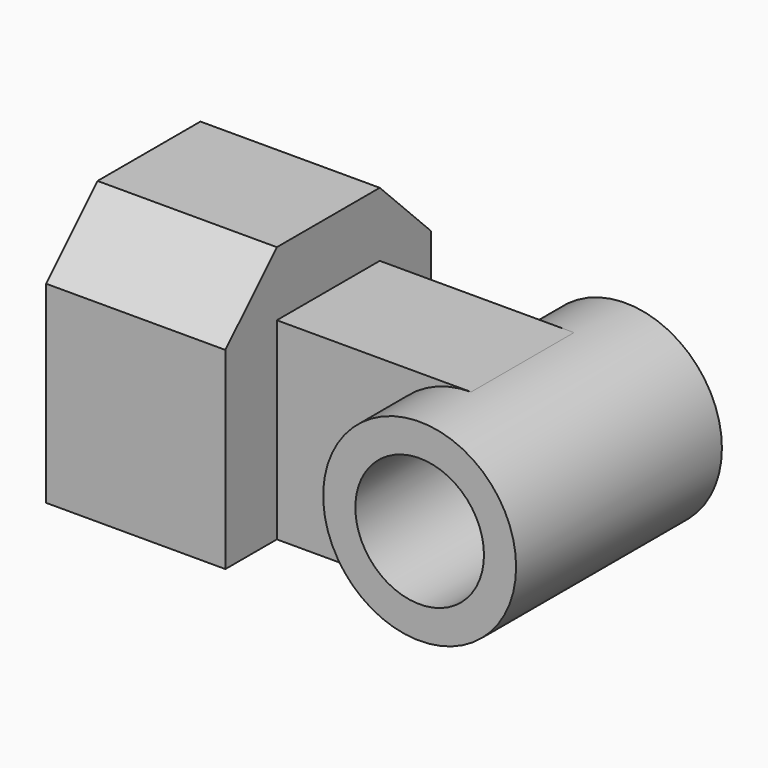
from build123d import *

# Parameters (mm, degrees)
F0_R     = 9.525
F1_DEPTH = 12.7
F2_R     = 6.35
F3_DEPTH = 12.7
F5_DEPTH = 6.35
F6_W     = 17.704927
F6_H     = 25.4
F7_DEPTH = 12.7
F9_DEPTH = 38.1


with BuildPart() as f1:
    # F0 (on Front) → F1 (new body, symmetric)
    with BuildSketch(Plane.XZ):
        Circle(F0_R)
    extrude(amount=F1_DEPTH, both=True)

    # F2 (on Front) → F3 (cut, symmetric)
    with BuildSketch(Plane.XZ):
        Circle(F2_R)
    extrude(amount=F3_DEPTH, both=True, mode=Mode.SUBTRACT)

    # F4 (on Front) → F5 (join, symmetric)
    with BuildSketch(Plane.XZ):
        with BuildLine():
            ThreePointArc((0, -9.525), (-9.525, 0), (0, 9.525))
            Line((0, 9.525), (-19.180335, 9.525))
            Line((-19.180335, 9.525), (-19.180335, -9.525))
            Line((-19.180335, -9.525), (0, -9.525))
        make_face()
    extrude(amount=F5_DEPTH, both=True)

    # F6 (on Front) → F7 (join, symmetric)
    with BuildSketch(Plane.XZ):
        with Locations((-28.032798, 3.175)):
            Rectangle(F6_W, F6_H)
    extrude(amount=F7_DEPTH, both=True)

    # F8 (on Right) → F9 (cut)
    with BuildSketch(Plane.YZ):
        Polygon((12.7, 9.525), (12.7, 15.875), (6.35, 15.875), align=None)
        Polygon((-6.35, 15.875), (-12.7, 15.875), (-12.7, 9.525), align=None)
    extrude(amount=-F9_DEPTH, mode=Mode.SUBTRACT)


solid = f1.part
